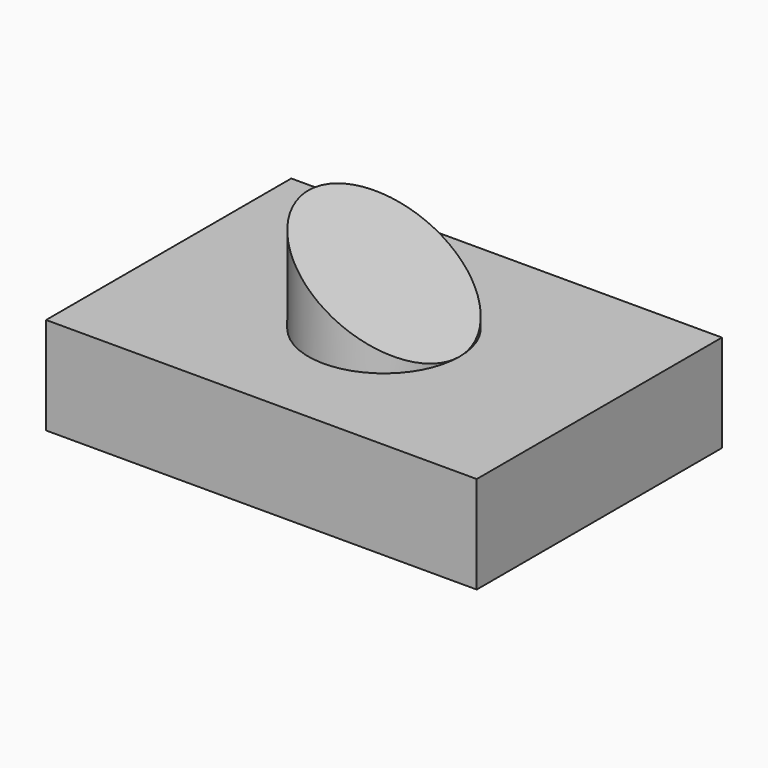
from build123d import *

# Parameters (mm, degrees)
F0_W     = 112.421236
F0_H     = 80.008708
F1_DEPTH = 25.4
F2_R     = 19.723865
F3_DEPTH = 50.8
F5_DEPTH = 80.009708


with BuildPart() as f1:
    # F0 (on Top) → F1 (new body)
    with BuildSketch(Plane.XY):
        Rectangle(F0_W, F0_H)
    extrude(amount=F1_DEPTH)

    # F2 (on Top) → F3 (join)
    with BuildSketch(Plane.XY):
        Circle(F2_R)
    extrude(amount=F3_DEPTH)

    # F4 (on face) → F5 (cut, through all)
    with BuildSketch(Plane.XZ.offset(40.004354)):
        Polygon((19.723865, 50.8), (-19.723865, 50.8), (19.723865, 25.4), align=None)
    extrude(amount=-F5_DEPTH, mode=Mode.SUBTRACT)


solid = f1.part
